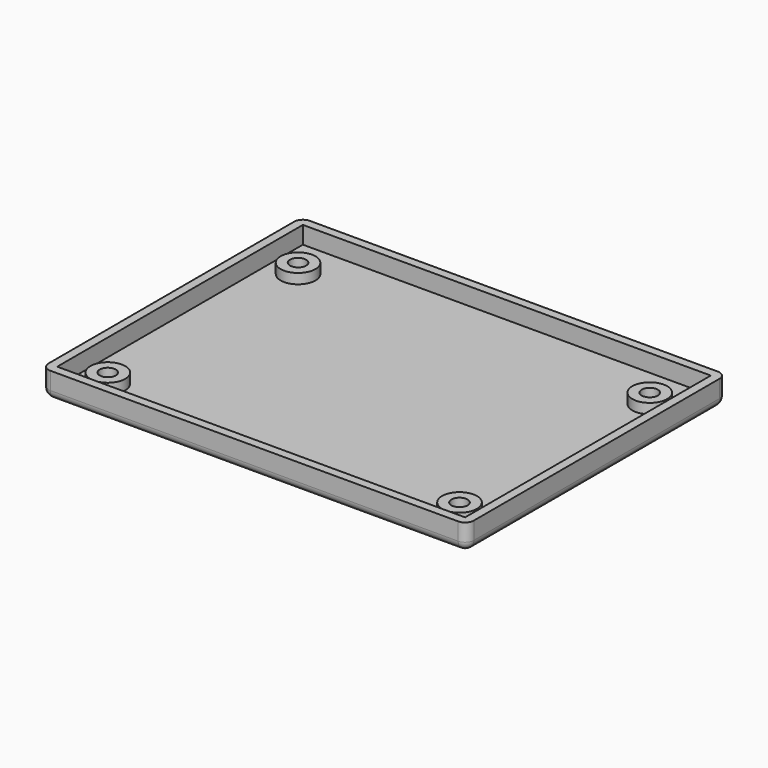
from build123d import *

# Parameters (mm, degrees)
SKETCH_W        = 97.65
SKETCH_H        = 74.5
PAD_DEPTH       = 6
SKETCH001_W     = 93.65
SKETCH001_H     = 70.5
POCKET_DEPTH    = 4
SKETCH002_R     = 4
PAD001_DEPTH    = 2.3
SKETCH003_R     = 1.85
POCKET001_DEPTH = 4.301
CHAMFER_SIZE    = 1.5
FILLET_R        = 2


with BuildPart() as part:
    # Sketch → Pad (new body)
    with BuildSketch(Plane.XY):
        Rectangle(SKETCH_W, SKETCH_H)
    extrude(amount=PAD_DEPTH)

    # Sketch001 → Pocket (cut)
    with BuildSketch(Plane.XY.offset(6)):
        Rectangle(SKETCH001_W, SKETCH001_H)
    extrude(amount=-POCKET_DEPTH, mode=Mode.SUBTRACT)

    # Sketch002 → Pad001 (new body)
    with BuildSketch(Plane.XY.offset(2)):
        with Locations((-40.375, 25.8)):
            Circle(SKETCH002_R)
        with Locations((40.375, 25.8)):
            Circle(SKETCH002_R)
        with Locations((40.375, -28.8)):
            Circle(SKETCH002_R)
        with Locations((-40.375, -28.8)):
            Circle(SKETCH002_R)
    extrude(amount=PAD001_DEPTH)

    # Sketch003 → Pocket001 (cut, through all)
    with BuildSketch(Plane.XY.offset(4.3)):
        with Locations((-40.375, 25.8)):
            Circle(SKETCH003_R)
        with Locations((40.375, -28.8)):
            Circle(SKETCH003_R)
        with Locations((40.375, 25.8)):
            Circle(SKETCH003_R)
        with Locations((-40.375, -28.8)):
            Circle(SKETCH003_R)
    extrude(amount=-POCKET001_DEPTH, mode=Mode.SUBTRACT)

    # Chamfer
    chamfer_edges = [part.edges().sort_by_distance(p)[0] for p in [
        (38.525, 25.8, 0),
        (-42.225, -28.8, 0),
        (38.525, -28.8, 0),
        (-42.225, 25.8, 0),
    ]]
    chamfer(chamfer_edges, length=CHAMFER_SIZE)

    # Fillet
    fillet_edges = [part.edges().sort_by_distance(p)[0] for p in [
        (48.825, 0, 0),
        (48.825, -37.25, 3),
        (0, -37.25, 0),
        (0, 37.25, 0),
        (-48.825, 0, 0),
        (-48.825, 37.25, 3),
        (-48.825, -37.25, 3),
        (48.825, 37.25, 3),
    ]]
    fillet(fillet_edges, radius=FILLET_R)


solid = part.part
